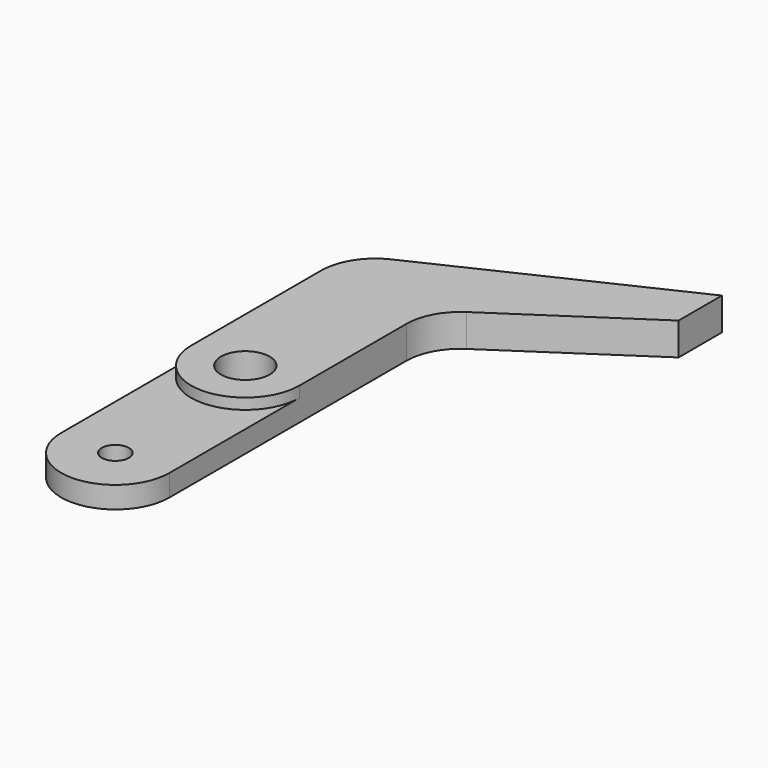
from build123d import *

# Parameters (mm, degrees)
F0_R     = 2.25
F1_DEPTH = 3
F0_R_2   = 1.25
F2_DEPTH = 2
F3_R     = 5


with BuildPart() as f1:
    # F0 (on Top) → F1 (new body)
    with BuildSketch(Plane.XY):
        with BuildLine():
            ThreePointArc((-5, 0), (0, -5), (5, 0))
            ThreePointArc((5, 0), (0, 5), (-5, 0))
        make_face()
        Circle(F0_R, mode=Mode.SUBTRACT)
        with BuildLine():
            ThreePointArc((-5, 0), (0, 5), (5, 0))
            Line((5, 0), (5, 15))
            ThreePointArc((5, 15), (0, 10), (-5, 15))
            Line((-5, 15), (-5, 0))
        make_face()
        with BuildLine():
            ThreePointArc((-5, 15), (0, 10), (5, 15))
            ThreePointArc((5, 15), (2.674235, 19.224745), (-2.139388, 19.519184))
            ThreePointArc((-2.139388, 19.519184), (-4.224745, 17.674235), (-5, 15))
        make_face()
        with BuildLine():
            ThreePointArc((-2.139388, 19.519184), (2.674235, 19.224745), (5, 15))
            Line((5, 15), (20, 25))
            Line((20, 25), (20, 30))
            Line((20, 30), (-2.139388, 19.519184))
        make_face()
    extrude(amount=F1_DEPTH)

    # F0 (on Top) → F2 (join)
    with BuildSketch(Plane.XY):
        with BuildLine():
            Line((5, -15), (5, 0))
            ThreePointArc((5, 0), (0, -5), (-5, 0))
            Line((-5, 0), (-5, -15))
            ThreePointArc((-5, -15), (0, -10), (5, -15))
        make_face()
        with BuildLine():
            ThreePointArc((-5, -15), (0, -20), (5, -15))
            ThreePointArc((5, -15), (0, -10), (-5, -15))
        make_face()
        with Locations((0, -15)):
            Circle(F0_R_2, mode=Mode.SUBTRACT)
    extrude(amount=F2_DEPTH)

    # F3
    f3_edges = [f1.edges().sort_by_distance(p)[0] for p in [
        (5, 15, 1.5),
    ]]
    fillet(f3_edges, radius=F3_R)


solid = f1.part
